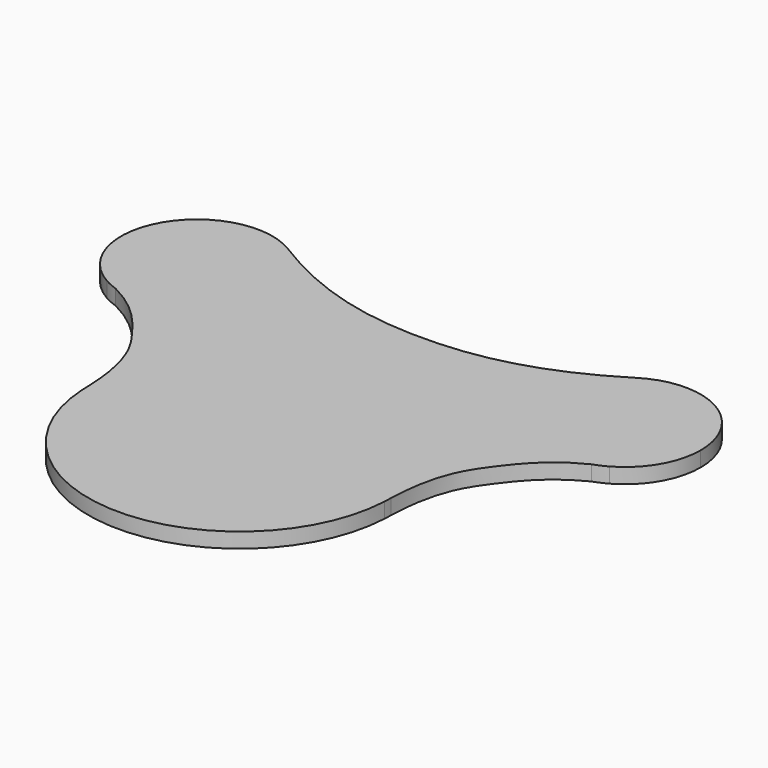
from build123d import *

# Parameters (mm, degrees)
F1_DEPTH = 5


with BuildPart() as f1:
    # F0 (on Top) → F1 (new body)
    with BuildSketch(Plane.XY):
        with BuildLine():
            add(Edge.make_bspline(
                [(-49.9999961408, -0.0196449659), (-49.9664638256, -0.8860425324), (-49.9420335458, -1.7790145827), (-49.9270517003, -2.6999089823)],
                knots=[0.9751186408, 0.9751186408, 0.9751186408, 0.9751186408, 1, 1, 1, 1], degree=3))
            ThreePointArc((-49.9270517003, -2.6999089823), (0, -50), (49.9270517003, -2.6999089823))
            add(Edge.make_bspline(
                [(49.9999961408, -0.0196449659), (49.9664638256, -0.8860425324), (49.9420335458, -1.7790145827), (49.9270517003, -2.6999089823)],
                knots=[0.9751186408, 0.9751186408, 0.9751186408, 0.9751186408, 1, 1, 1, 1], degree=3))
            ThreePointArc((49.9999961408, -0.0196449659), (49.9999990352, -0.0098224831), (50, 0))
            ThreePointArc((50, 0), (-0.0098224831, 49.9999990352), (-49.9999961408, -0.0196449659))
        make_face()
        with BuildLine():
            ThreePointArc((-49.9999961408, -0.0196449659), (-49.9814933386, -1.3602660189), (-49.9270517003, -2.6999089823))
            add(Edge.make_bspline(
                [(-49.9999961408, -0.0196449659), (-49.9664638256, -0.8860425324), (-49.9420335458, -1.7790145827), (-49.9270517003, -2.6999089823)],
                knots=[0.9751186408, 0.9751186408, 0.9751186408, 0.9751186408, 1, 1, 1, 1], degree=3))
        make_face()
        with BuildLine():
            add(Edge.make_bspline(
                [(49.9999961408, -0.0196449659), (49.9664638256, -0.8860425324), (49.9420335458, -1.7790145827), (49.9270517003, -2.6999089823)],
                knots=[0.9751186408, 0.9751186408, 0.9751186408, 0.9751186408, 1, 1, 1, 1], degree=3))
            ThreePointArc((49.9270517003, -2.6999089823), (49.9814933386, -1.3602660189), (49.9999961408, -0.0196449659))
        make_face()
        with BuildLine():
            add(Edge.make_bspline(
                [(-78.578749588, 46.9810879125), (-69.4140090661, 42.4121513529), (-58.5888238339, 29.5867625113), (-50.6717784072, 17.3376570554), (-49.9999961408, -0.0196449659)],
                knots=[0.0626413223, 0.0626413223, 0.0626413223, 0.0626413223, 0.476648559, 0.9751186408, 0.9751186408, 0.9751186408, 0.9751186408], degree=3))
            ThreePointArc((-49.9999961408, -0.0196449659), (-0.0098224831, 49.9999990352), (50, 0))
            ThreePointArc((50, 0), (49.9999990352, -0.0098224831), (49.9999961408, -0.0196449659))
            add(Edge.make_bspline(
                [(78.578749588, 46.9810879125), (69.4140090661, 42.4121513529), (58.5888238339, 29.5867625113), (50.6717784072, 17.3376570554), (49.9999961408, -0.0196449659)],
                knots=[0.0626413223, 0.0626413223, 0.0626413223, 0.0626413223, 0.476648559, 0.9751186408, 0.9751186408, 0.9751186408, 0.9751186408], degree=3))
            ThreePointArc((78.578749588, 46.9810879125), (48.0823511673, 60.0824694557), (57.4725069474, 91.9180076073))
            add(Edge.make_bspline(
                [(-57.4725069474, 91.9180076073), (-36.4479498167, 78.7939277346), (0, 70.8981606309), (36.4479498167, 78.7939277346), (57.4725069474, 91.9180076073)],
                knots=[0, 0, 0, 0, 0.5, 1, 1, 1, 1], degree=3))
            ThreePointArc((-57.4725069474, 91.9180076073), (-48.8479898201, 82.8359764803), (-45.7106781187, 70.7106781187))
            ThreePointArc((-45.7106781187, 70.7106781187), (-56.076843808, 50.4412209634), (-78.578749588, 46.9810879125))
        make_face()
        with BuildLine():
            add(Edge.make_bspline(
                [(-83.0435235892, 48.9643928589), (-81.4494581744, 48.3350724817), (-79.9654197097, 47.6723903885), (-78.578749588, 46.9810879125)],
                knots=[0, 0, 0, 0, 0.0626413223, 0.0626413223, 0.0626413223, 0.0626413223], degree=3))
            ThreePointArc((-78.578749588, 46.9810879125), (-56.076843808, 50.4412209634), (-45.7106781187, 70.7106781187))
            ThreePointArc((-45.7106781187, 70.7106781187), (-48.8479898201, 82.8359764803), (-57.4725069474, 91.9180076073))
            ThreePointArc((-57.4725069474, 91.9180076073), (-92.1922553104, 83.499025993), (-83.0435235892, 48.9643928589))
        make_face()
        with BuildLine():
            ThreePointArc((-83.0435235892, 48.9643928589), (-80.8596995459, 47.8634164869), (-78.578749588, 46.9810879125))
            add(Edge.make_bspline(
                [(-83.0435235892, 48.9643928589), (-81.4494581744, 48.3350724817), (-79.9654197097, 47.6723903885), (-78.578749588, 46.9810879125)],
                knots=[0, 0, 0, 0, 0.0626413223, 0.0626413223, 0.0626413223, 0.0626413223], degree=3))
        make_face()
        with BuildLine():
            add(Edge.make_bspline(
                [(83.0435235892, 48.9643928589), (81.4494581744, 48.3350724817), (79.9654197097, 47.6723903885), (78.578749588, 46.9810879125)],
                knots=[0, 0, 0, 0, 0.0626413223, 0.0626413223, 0.0626413223, 0.0626413223], degree=3))
            ThreePointArc((78.578749588, 46.9810879125), (80.8596995459, 47.8634164869), (83.0435235892, 48.9643928589))
        make_face()
        with BuildLine():
            ThreePointArc((57.4725069474, 91.9180076073), (48.0823511673, 60.0824694557), (78.578749588, 46.9810879125))
            add(Edge.make_bspline(
                [(83.0435235892, 48.9643928589), (81.4494581744, 48.3350724817), (79.9654197097, 47.6723903885), (78.578749588, 46.9810879125)],
                knots=[0, 0, 0, 0, 0.0626413223, 0.0626413223, 0.0626413223, 0.0626413223], degree=3))
            ThreePointArc((83.0435235892, 48.9643928589), (92.313005965, 58.1273784076), (95.7106781187, 70.7106781187))
            ThreePointArc((95.7106781187, 70.7106781187), (82.8359764803, 92.5733664172), (57.4725069474, 91.9180076073))
        make_face()
    extrude(amount=F1_DEPTH)


solid = f1.part
